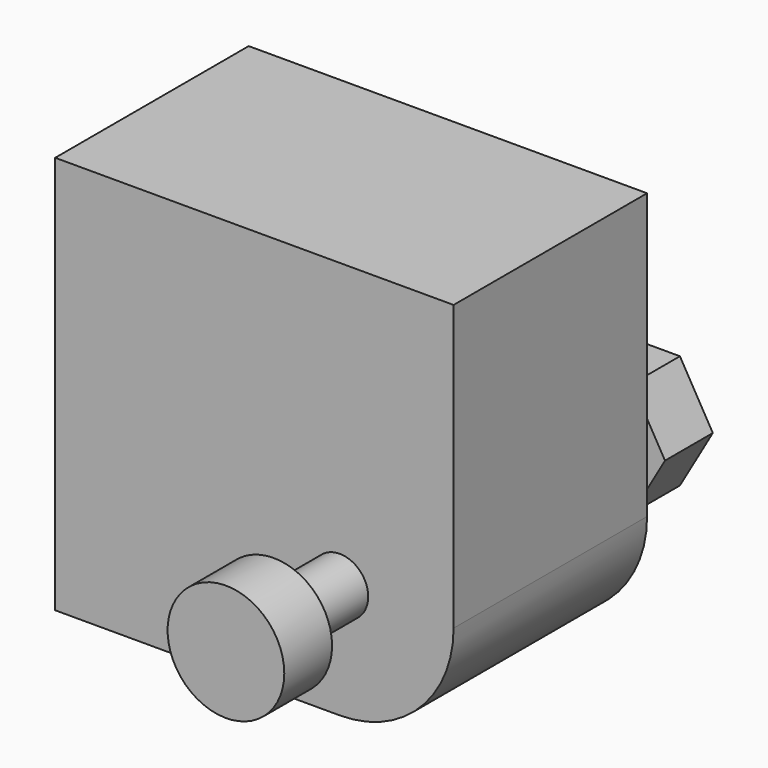
from build123d import *

# Parameters (mm, degrees)
PAD002_DEPTH = 2.1
SKETCH003_R  = 1
PAD003_DEPTH = 14.3
SKETCH004_R  = 2.05
PAD004_DEPTH = 2.1
PAD005_DEPTH = 8.5


with BuildPart() as part:
    # Sketch002 → Pad002 (new body)
    with BuildSketch(Plane.XZ.offset(-2.5)):
        Polygon((-56.845299, -2), (-55.690599, 0), (-56.845299, 2), (-59.154701, 2), (-60.309401, 0), (-59.154701, -2), align=None)
    extrude(amount=PAD002_DEPTH)

    # Sketch003 (on Face8 of Pad002) → Pad003 (join)
    with BuildSketch(Plane.XZ.offset(-0.4)):
        with Locations((-58, 0)):
            Circle(SKETCH003_R)
    extrude(amount=PAD003_DEPTH)

    # Sketch004 (on Face10 of Pad003) → Pad004 (join)
    with BuildSketch(Plane.XZ.offset(13.9)):
        with Locations((-58, 0)):
            Circle(SKETCH004_R)
    extrude(amount=PAD004_DEPTH)

    # Sketch005 → Pad005 (join)
    with BuildSketch(Plane.XZ.offset(2.5)):
        with BuildLine():
            Line((-68, 10), (-54, 10))
            Line((-54, 10), (-54, 0))
            ThreePointArc((-58, -4), (-55.171573, -2.828427), (-54, 0))
            Line((-58, -4), (-68, -4))
            Line((-68, -4), (-68, 10))
        make_face()
    extrude(amount=PAD005_DEPTH)


solid = part.part
